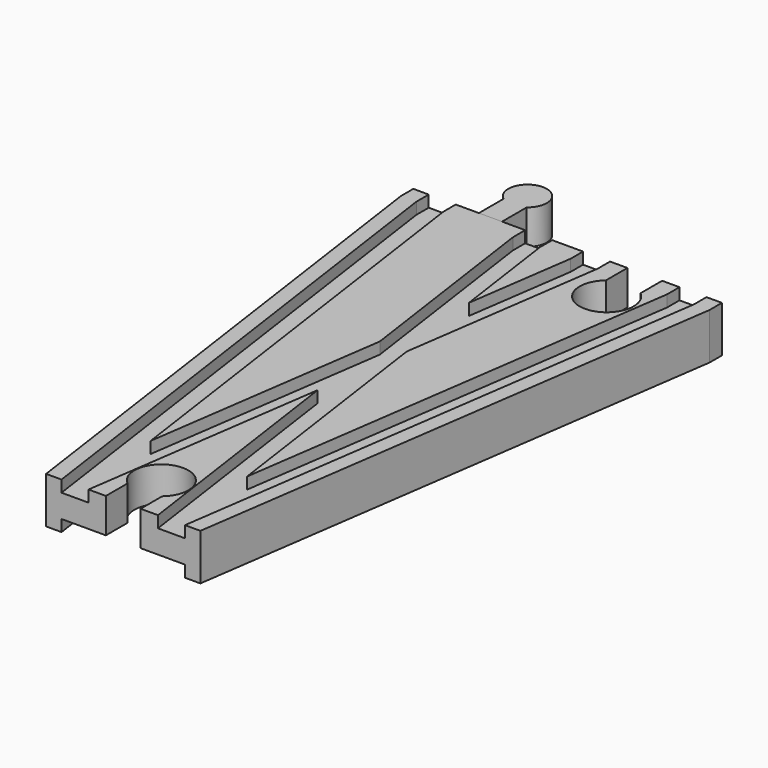
from build123d import *

# Parameters (mm, degrees)
SKETCH004_W          = 32
SKETCH004_H          = 3
SKETCH005_W          = 7
SKETCH005_H          = 3
SKETCH006_W          = 7
SKETCH006_H          = 3
POCKET_DEPTH         = 6.001
POCKET_DEPTH_BACK    = -6.001
POCKET001_DEPTH      = 6.001
POCKET001_DEPTH_BACK = -6.001
PAD001_DEPTH         = 6
PAD001_DEPTH_BACK    = 3


with BuildPart() as body:
    # AdditivePipe: sweep along a path in Sketch
    with BuildLine(Plane.XY) as additivepipe_path:
        Line((-20, 144), (-20, 140))
        Line((-20, 140), (0, 0))
    # Sketch002 → AdditivePipe (sweep)
    with BuildSketch(Plane.XZ):
        Polygon((-20, 6), (-20, -6), (-16, -6), (-16, -3), (-9, -3), (9, -3), (16, -3), (16, -6), (20, -6), (20, 6), (16, 6), (16, 3), (9, 3), (9, 6), (-9, 6), (-9, 3), (-16, 3), (-16, 6), align=None)
    sweep(path=additivepipe_path.line)

    # AdditivePipe001: sweep along a path in Sketch001
    with BuildLine(Plane.XY) as additivepipe001_path:
        Line((20, 144), (20, 140))
        Line((20, 140), (0, 0))
    # Sketch002 → AdditivePipe001 (sweep)
    with BuildSketch(Plane.XZ):
        Polygon((-20, 6), (-20, -6), (-16, -6), (-16, -3), (-9, -3), (9, -3), (16, -3), (16, -6), (20, -6), (20, 6), (16, 6), (16, 3), (9, 3), (9, 6), (-9, 6), (-9, 3), (-16, 3), (-16, 6), align=None)
    sweep(path=additivepipe001_path.line)

    # SubtractivePipe: sweep along a path in Sketch
    with BuildLine(Plane.XY) as subtractivepipe_path:
        Line((-20, 144), (-20, 140))
        Line((-20, 140), (0, 0))
    # Sketch004 → SubtractivePipe (sweep, cut)
    with BuildSketch(Plane.XZ):
        with Locations((0, -4.5)):
            Rectangle(SKETCH004_W, SKETCH004_H)
    sweep(path=subtractivepipe_path.line, mode=Mode.SUBTRACT)

    # SubtractivePipe001: sweep along a path in Sketch001
    with BuildLine(Plane.XY) as subtractivepipe001_path:
        Line((20, 144), (20, 140))
        Line((20, 140), (0, 0))
    # Sketch004 → SubtractivePipe001 (sweep, cut)
    with BuildSketch(Plane.XZ):
        with Locations((0, -4.5)):
            Rectangle(SKETCH004_W, SKETCH004_H)
    sweep(path=subtractivepipe001_path.line, mode=Mode.SUBTRACT)

    # SubtractivePipe002: sweep along a path in Sketch
    with BuildLine(Plane.XY) as subtractivepipe002_path:
        Line((-20, 144), (-20, 140))
        Line((-20, 140), (0, 0))
    # Sketch005 → SubtractivePipe002 (sweep, cut)
    with BuildSketch(Plane.XZ):
        with Locations((-12.5, 4.5)):
            Rectangle(SKETCH005_W, SKETCH005_H)
    sweep(path=subtractivepipe002_path.line, mode=Mode.SUBTRACT)

    # SubtractivePipe003: sweep along a path in Sketch001
    with BuildLine(Plane.XY) as subtractivepipe003_path:
        Line((20, 144), (20, 140))
        Line((20, 140), (0, 0))
    # Sketch005 → SubtractivePipe003 (sweep, cut)
    with BuildSketch(Plane.XZ):
        with Locations((-12.5, 4.5)):
            Rectangle(SKETCH005_W, SKETCH005_H)
    sweep(path=subtractivepipe003_path.line, mode=Mode.SUBTRACT)

    # SubtractivePipe004: sweep along a path in Sketch
    with BuildLine(Plane.XY) as subtractivepipe004_path:
        Line((-20, 144), (-20, 140))
        Line((-20, 140), (0, 0))
    # Sketch006 → SubtractivePipe004 (sweep, cut)
    with BuildSketch(Plane.XZ):
        with Locations((12.5, 4.5)):
            Rectangle(SKETCH006_W, SKETCH006_H)
    sweep(path=subtractivepipe004_path.line, mode=Mode.SUBTRACT)

    # SubtractivePipe005: sweep along a path in Sketch001
    with BuildLine(Plane.XY) as subtractivepipe005_path:
        Line((20, 144), (20, 140))
        Line((20, 140), (0, 0))
    # Sketch006 → SubtractivePipe005 (sweep, cut)
    with BuildSketch(Plane.XZ):
        with Locations((12.5, 4.5)):
            Rectangle(SKETCH006_W, SKETCH006_H)
    sweep(path=subtractivepipe005_path.line, mode=Mode.SUBTRACT)

    # Sketch003 → Pocket (cut, two sides)
    with BuildSketch(Plane.XY) as pocket_sk:
        with BuildLine():
            Line((-4.5, 0), (4.5, 0))
            Line((4.5, 0), (4.5, 7))
            ThreePointArc((4.5, 7), (0, 19.361903), (-4.5, 7))
            Line((-4.5, 0), (-4.5, 7))
        make_face()
    extrude(amount=-POCKET_DEPTH, mode=Mode.SUBTRACT)
    extrude(pocket_sk.sketch, amount=-POCKET_DEPTH_BACK, mode=Mode.SUBTRACT)

    # Sketch008 → Pocket001 (cut, two sides)
    with BuildSketch(Plane.XY) as pocket001_sk:
        with BuildLine():
            Line((15.5, 144), (24.5, 144))
            Line((24.5, 144), (24.5, 137))
            ThreePointArc((15.5, 137), (20, 124.638097), (24.5, 137))
            Line((15.5, 144), (15.5, 137))
        make_face()
    extrude(amount=-POCKET001_DEPTH, mode=Mode.SUBTRACT)
    extrude(pocket001_sk.sketch, amount=-POCKET001_DEPTH_BACK, mode=Mode.SUBTRACT)


with BuildPart() as male2:
    # Sketch010 → Pad001 (new body, two sides)
    with BuildSketch(Plane.XY) as pad001_sk:
        with BuildLine():
            Line((-23, 144), (-17, 144))
            Line((-17, 144), (-17, 152))
            ThreePointArc((-17, 152), (-20, 161), (-23, 152))
            Line((-23, 144), (-23, 152))
        make_face()
    extrude(amount=PAD001_DEPTH)
    extrude(pad001_sk.sketch, amount=-PAD001_DEPTH_BACK)


solid = Compound([body.part, male2.part])
